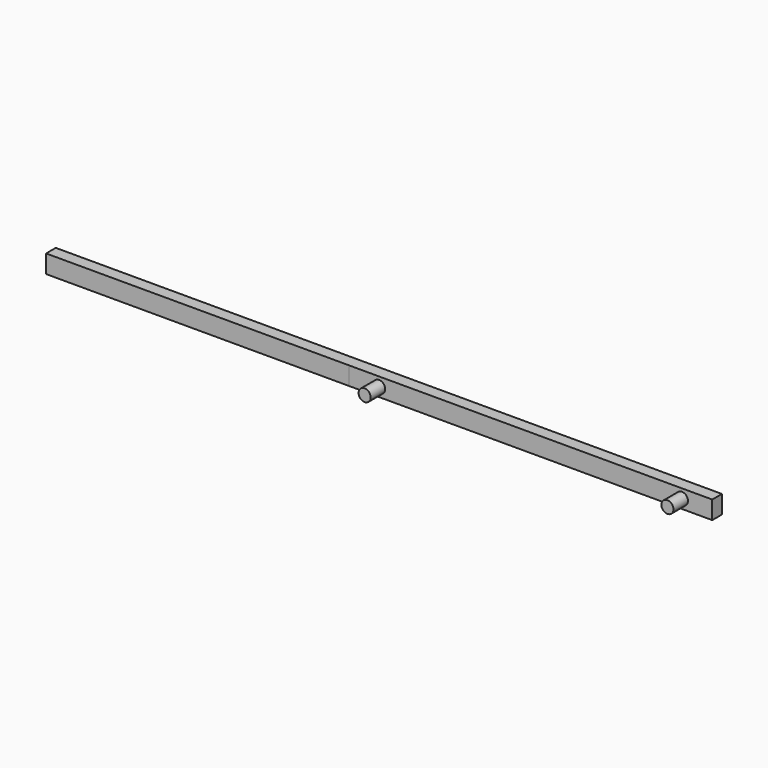
from build123d import *

# Parameters (mm, degrees)
F0_W     = 300
F0_H     = 15
F0_R     = 5
F1_DEPTH = 10
F2_DEPTH = 25
F4_W     = 10
F4_H     = 15
F5_DEPTH = 250


with BuildPart() as f1:
    # F0 (on Front) → F1 (new body)
    with BuildSketch(Plane.XZ):
        Rectangle(F0_W, F0_H)
        with Locations((-125, 0)):
            Circle(F0_R, mode=Mode.SUBTRACT)
        with Locations((125, 0)):
            Circle(F0_R, mode=Mode.SUBTRACT)
    extrude(amount=F1_DEPTH)

    # F0 (on Front) → F2 (join)
    with BuildSketch(Plane.XZ):
        with Locations((-125, 0)):
            Circle(F0_R)
        with Locations((125, 0)):
            Circle(F0_R)
    extrude(amount=F2_DEPTH)

    # F4 (on offset) → F5 (join)
    with BuildSketch(Plane(origin=(-150, 0, 0), x_dir=(0, -1, 0), z_dir=(-1, 0, 0))):
        with Locations((4.988082091, 0)):
            Rectangle(F4_W, F4_H)
    extrude(amount=F5_DEPTH)


solid = f1.part
